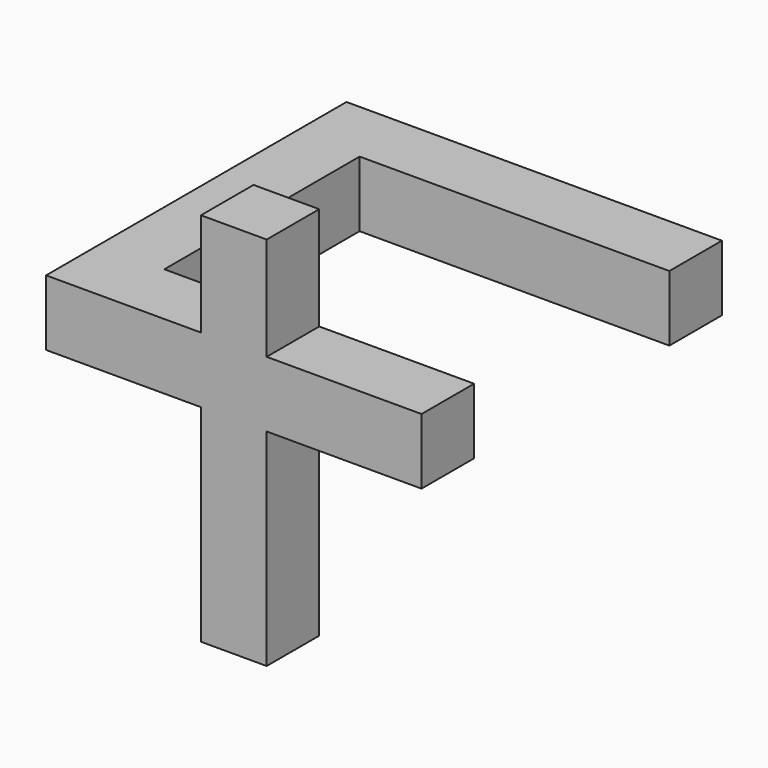
from build123d import *

# Parameters (mm, degrees)
F1_DEPTH = 177.8
F2_W     = 177.8
F2_H     = 279.4
F2_H_2   = 558.8
F3_DEPTH = 177.8


with BuildPart() as f1:
    # F0 (on Top) → F1 (new body)
    with BuildSketch(Plane.XY):
        Polygon((508, 330.2), (508, 508), (-508, 508), (-508, -508), (508, -508), (508, -330.2), (-330.2, -330.2), (-330.2, 330.2), align=None)
    extrude(amount=F1_DEPTH)

    # F2 (on face) → F3 (join)
    with BuildSketch(Plane.XZ.offset(508)):
        with Locations((0, 317.5)):
            Rectangle(F2_W, F2_H)
        with Locations((0, -279.4)):
            Rectangle(F2_W, F2_H_2)
    extrude(amount=-F3_DEPTH)


solid = f1.part
